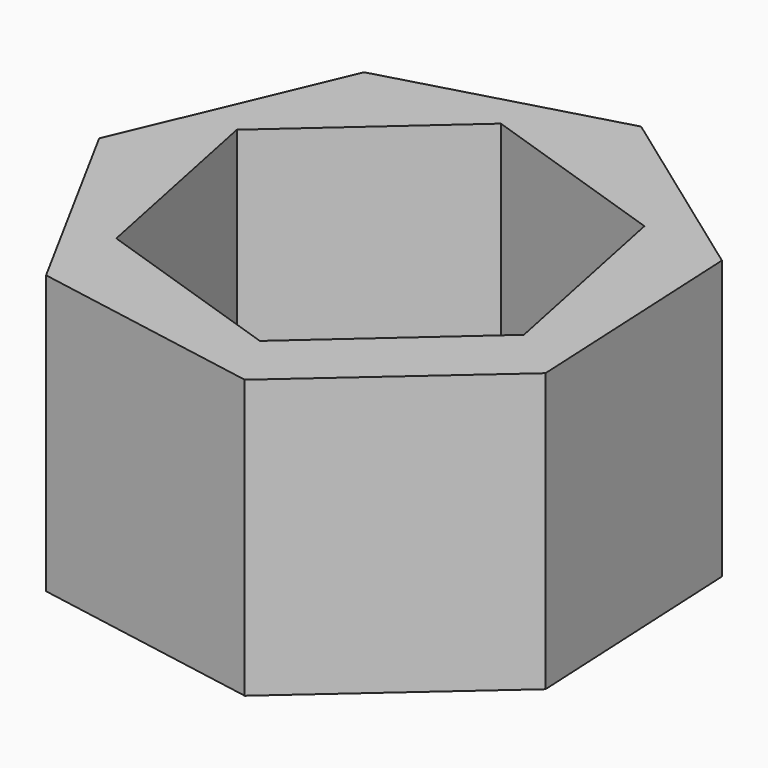
from build123d import *

# Parameters (mm, degrees)
F1_DEPTH = 53.34


with BuildPart() as f1:
    # F0 (on Top) → F1 (new body)
    with BuildSketch(Plane.XY):
        Polygon((14.015668, -50.0217), (47.847166, -20.23013), (45.648772, 24.795141), (9.075922, 51.149165), (-34.331283, 38.986824), (-51.886331, -2.53339), (-30.369914, -42.14591), align=None)
        Polygon((29.626246, 26.25031), (37.546558, -12.531927), (7.920312, -38.782237), (-29.626246, -26.25031), (-37.546558, 12.531927), (-7.920312, 38.782237), align=None, mode=Mode.SUBTRACT)
    extrude(amount=F1_DEPTH)


solid = f1.part
